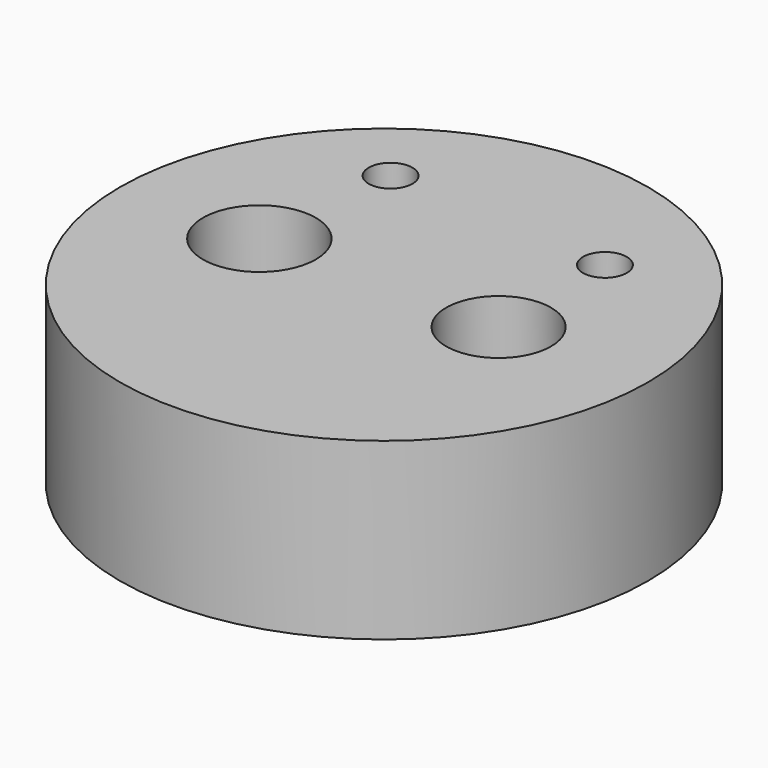
from build123d import *

# Parameters (mm, degrees)
F0_R     = 38.3617531957
F1_DEPTH = 25.4
F2_R     = 7.6146171672
F2_R_2   = 8.1970349446
F3_DEPTH = 25.401
F5_D     = 6.35
F5_DEPTH = 12.7
F5_TIP   = 1.9077324654


with BuildPart() as f1:
    # F0 (on Top) → F1 (new body)
    with BuildSketch(Plane.XY):
        Circle(F0_R)
    extrude(amount=F1_DEPTH)

    # F2 (on face) → F3 (cut, through all)
    with BuildSketch(Plane.XY.offset(25.4)):
        with Locations((16.6444163769, 0)):
            Circle(F2_R)
        with Locations((-18.1044526398, 0)):
            Circle(F2_R_2)
    extrude(amount=-F3_DEPTH, mode=Mode.SUBTRACT)

    # F5
    with Locations(Plane.XY.offset(25.4)):
        with Locations((-16.1400576362, 21.3705980134), (16.5315663715, 19.4467739825)):
            Hole(F5_D / 2, depth=F5_DEPTH)
            with Locations((0, 0, -(F5_DEPTH + F5_TIP / 2))):  # 118° drill point
                Cone(0, F5_D / 2, F5_TIP, mode=Mode.SUBTRACT)


solid = f1.part
